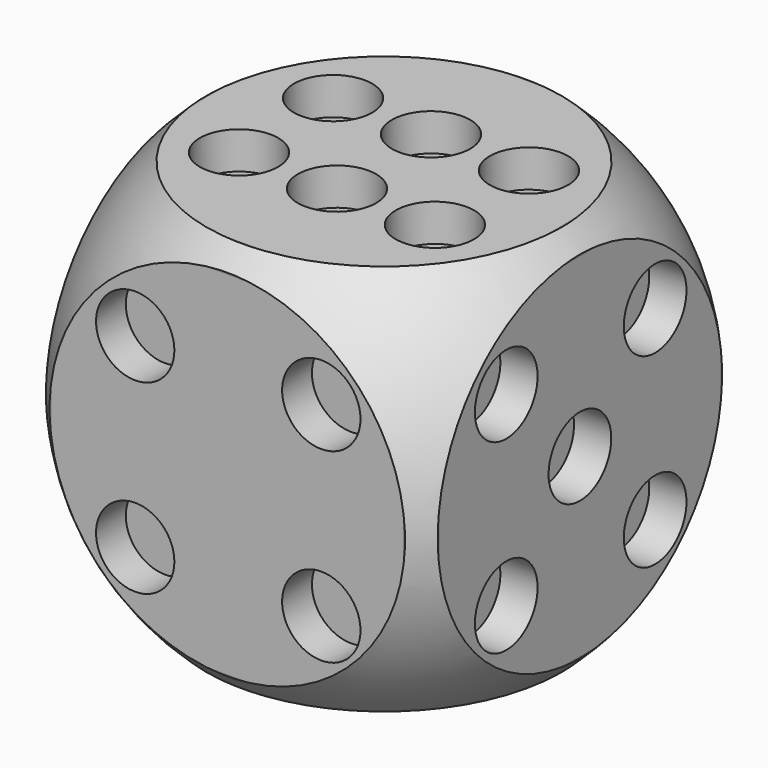
from build123d import *

# Parameters (mm, degrees)
CYLINDER010_R     = 2
CYLINDER010_DEPTH = 2
CYLINDER009_R     = 2
CYLINDER009_DEPTH = 2
CYLINDER008_R     = 2
CYLINDER008_DEPTH = 2
CYLINDER007_R     = 2
CYLINDER007_DEPTH = 2
CYLINDER006_R     = 2
CYLINDER006_DEPTH = 2
ARRAY002_Y_COUNT  = 2
ARRAY002_Y_PITCH  = 9.5
ARRAY002_Z_COUNT  = 2
ARRAY002_Z_PITCH  = 9.5
CYLINDER005_R     = 2
CYLINDER005_DEPTH = 2
ARRAY001_X_COUNT  = 2
ARRAY001_X_PITCH  = 9.5
ARRAY001_Z_COUNT  = 2
ARRAY001_Z_PITCH  = 9.5
CYLINDER003_R     = 2
CYLINDER003_DEPTH = 2
CYLINDER002_R     = 2
CYLINDER002_DEPTH = 2
CYLINDER001_R     = 2
CYLINDER001_DEPTH = 2
CYLINDER_R        = 2
CYLINDER_DEPTH    = 2
ARRAY_X_COUNT     = 3
ARRAY_X_PITCH     = 5
ARRAY_Y_COUNT     = 2
ARRAY_Y_PITCH     = 6
BOX_W             = 20
BOX_H             = 20
BOX_DEPTH         = 20
FILLET_R          = 1


with BuildPart() as cilindre010:
    # Cylinder010 → Cylinder010 (new body)
    with BuildSketch(Plane(origin=(14, 20.1, 5), x_dir=(1, 0, 0), z_dir=(0, -1, 0))):
        Circle(CYLINDER010_R)
    extrude(amount=CYLINDER010_DEPTH)


with BuildPart() as cilindre009:
    # Cylinder009 → Cylinder009 (new body)
    with BuildSketch(Plane(origin=(6, 20.1, 15), x_dir=(1, 0, 0), z_dir=(0, -1, 0))):
        Circle(CYLINDER009_R)
    extrude(amount=CYLINDER009_DEPTH)


with BuildPart() as cilindre008:
    # Cylinder008 → Cylinder008 (new body)
    with BuildSketch(Plane(origin=(10, 10, -0.1), x_dir=(1, 0, 0), z_dir=(0, 0, 1))):
        Circle(CYLINDER008_R)
    extrude(amount=CYLINDER008_DEPTH)


with BuildPart() as cilindre007:
    # Cylinder007 → Cylinder007 (new body)
    with BuildSketch(Plane(origin=(18.1, 10, 10), x_dir=(0, 0, -1), z_dir=(1, 0, 0))):
        Circle(CYLINDER007_R)
    extrude(amount=CYLINDER007_DEPTH)


with BuildPart() as array002:
    # Cylinder006 → Cylinder006 (new body)
    with BuildSketch(Plane(origin=(0, 0, 0), x_dir=(0, 0, -1), z_dir=(1, 0, 0))):
        Circle(CYLINDER006_R)
    extrude(amount=CYLINDER006_DEPTH)

    # Array002 Y: Array002 ×2


with BuildPart() as array002_1:
    add(array002.part)
    with Locations(*[(0, i * ARRAY002_Y_PITCH, 0) for i in range(1, ARRAY002_Y_COUNT)]):
        add(array002.part)

    # Array002 Z: Array002 ×2


with BuildPart() as array002_2:
    add(array002_1.part)
    with Locations(*[(0, 0, i * ARRAY002_Z_PITCH) for i in range(1, ARRAY002_Z_COUNT)]):
        add(array002_1.part)


with BuildPart() as array002_3:
    # Array002 placement: moved
    add(array002_2.part.moved(Location((18.1, 5.3, 5.2))))


with BuildPart() as array001:
    # Cylinder005 → Cylinder005 (new body)
    with BuildSketch(Plane.XZ):
        Circle(CYLINDER005_R)
    extrude(amount=CYLINDER005_DEPTH)

    # Array001 X: Array001 ×2


with BuildPart() as array001_1:
    add(array001.part)
    with Locations(*[(i * ARRAY001_X_PITCH, 0, 0) for i in range(1, ARRAY001_X_COUNT)]):
        add(array001.part)

    # Array001 Z: Array001 ×2


with BuildPart() as array001_2:
    add(array001_1.part)
    with Locations(*[(0, 0, i * ARRAY001_Z_PITCH) for i in range(1, ARRAY001_Z_COUNT)]):
        add(array001_1.part)


with BuildPart() as array001_3:
    # Array001 placement: moved
    add(array001_2.part.moved(Location((5.3, 1.9, 5.2))))


with BuildPart() as cilindre003:
    # Cylinder003 → Cylinder003 (new body)
    with BuildSketch(Plane(origin=(0, 14, 15), x_dir=(0, 0, -1), z_dir=(1, 0, 0))):
        Circle(CYLINDER003_R)
    extrude(amount=CYLINDER003_DEPTH)


with BuildPart() as cilindre002:
    # Cylinder002 → Cylinder002 (new body)
    with BuildSketch(Plane(origin=(0, 10.1, 10), x_dir=(0, 0, -1), z_dir=(1, 0, 0))):
        Circle(CYLINDER002_R)
    extrude(amount=CYLINDER002_DEPTH)


with BuildPart() as cilindre001:
    # Cylinder001 → Cylinder001 (new body)
    with BuildSketch(Plane(origin=(1.9, 6, 5), x_dir=(0, 0, 1), z_dir=(-1, 0, 0))):
        Circle(CYLINDER001_R)
    extrude(amount=CYLINDER001_DEPTH)


with BuildPart() as array:
    # Cylinder → Cylinder (new body)
    with BuildSketch(Plane(origin=(5, 6.5, 18.1), x_dir=(1, 0, 0), z_dir=(0, 0, 1))):
        Circle(CYLINDER_R)
    extrude(amount=CYLINDER_DEPTH)

    # Array X: Array ×3


with BuildPart() as array_1:
    add(array.part)
    with Locations(*[(i * ARRAY_X_PITCH, 0, 0) for i in range(1, ARRAY_X_COUNT)]):
        add(array.part)

    # Array Y: Array ×2


with BuildPart() as array_2:
    add(array_1.part)
    with Locations(*[(0, i * ARRAY_Y_PITCH, 0) for i in range(1, ARRAY_Y_COUNT)]):
        add(array_1.part)


with BuildPart() as array_3:
    # Array placement: moved
    add(array_2.part.moved(Location((0, 0.5, 0))))


with BuildPart() as esfera:
    # Sphere → Sphere (revolve)
    with BuildSketch(Plane(origin=(10, 10, 10), x_dir=(1, 0, 0), z_dir=(0, -1, 0))):
        with BuildLine():
            ThreePointArc((0, -13.5), (13.5, 0), (0, 13.5))
            Line((0, 13.5), (0, -13.5))
        make_face()
    revolve(axis=Axis((10, 10, 10), (0, 0, 1)))


with BuildPart() as cut009:
    # Box → Box (new body)
    with BuildSketch(Plane.XY):
        with Locations((10, 10)):
            Rectangle(BOX_W, BOX_H)
    extrude(amount=BOX_DEPTH)

    # Fillet
    fillet_edges = [cut009.edges().sort_by_distance(p)[0] for p in [
        (0, 0, 10),
        (0, 10, 20),
        (0, 20, 10),
        (0, 10, 0),
        (20, 0, 10),
        (20, 10, 20),
        (20, 20, 10),
        (20, 10, 0),
        (10, 0, 0),
        (10, 0, 20),
        (10, 20, 0),
        (10, 20, 20),
    ]]
    fillet(fillet_edges, radius=FILLET_R)

    # Common: intersect Esfera
    add(esfera.part, mode=Mode.INTERSECT)

    # Cut: cut Array
    add(array_3.part, mode=Mode.SUBTRACT)

    # Cut001: cut Cilindre001
    add(cilindre001.part, mode=Mode.SUBTRACT)

    # Cut002: cut Cilindre002
    add(cilindre002.part, mode=Mode.SUBTRACT)

    # Cut003: cut Cilindre003
    add(cilindre003.part, mode=Mode.SUBTRACT)

    # Cut004: cut Array001
    add(array001_3.part, mode=Mode.SUBTRACT)

    # Cut005: cut Array002
    add(array002_3.part, mode=Mode.SUBTRACT)

    # Cut006: cut Cilindre007
    add(cilindre007.part, mode=Mode.SUBTRACT)

    # Cut007: cut Cilindre008
    add(cilindre008.part, mode=Mode.SUBTRACT)

    # Cut008: cut Cilindre009
    add(cilindre009.part, mode=Mode.SUBTRACT)

    # Cut009: cut Cilindre010
    add(cilindre010.part, mode=Mode.SUBTRACT)


solid = cut009.part
